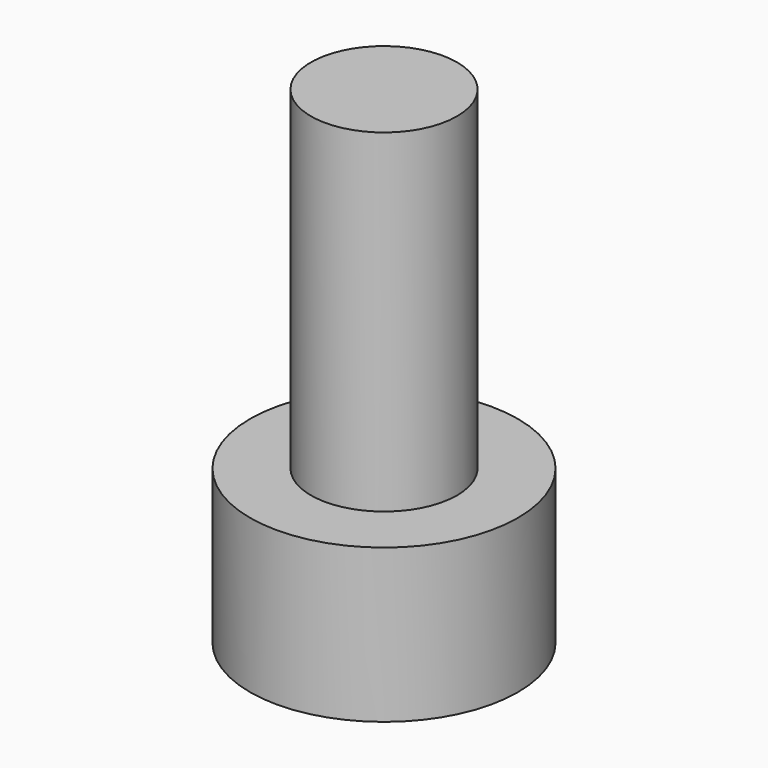
from build123d import *

# Parameters (mm, degrees)
F0_R     = 2.75
F0_R_2   = 1.5
F1_DEPTH = 3.15
F2_DEPTH = 10
F4_DEPTH = 3


with BuildPart() as f1:
    # F0 (on Top) → F1 (new body)
    with BuildSketch(Plane.XY):
        Circle(F0_R)
        Circle(F0_R_2, mode=Mode.SUBTRACT)
    extrude(amount=F1_DEPTH)

    # F0 (on Top) → F2 (join)
    with BuildSketch(Plane.XY):
        Circle(F0_R_2)
    extrude(amount=F2_DEPTH)

    # F3 (on face) → F4 (cut)
    with BuildSketch(Plane(origin=(0, 0, 0), x_dir=(1, 0, 0), z_dir=(0, 0, -1))):
        Polygon((1.349507, 1.524745), (-0.598857, 1.958133), (-1.948365, 0.487494), (-1.349507, -1.416534), (0.598857, -1.849922), (1.948365, -0.379282), align=None)
    extrude(amount=-F4_DEPTH, mode=Mode.SUBTRACT)


solid = f1.part
